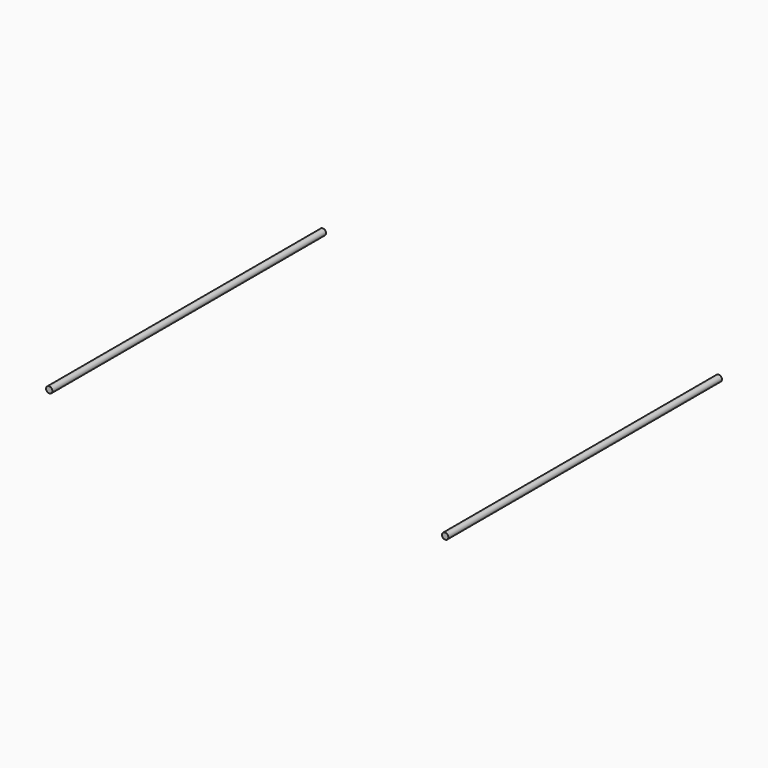
from build123d import *

# Parameters (mm, degrees)
CYLINDER011_R          = 5
CYLINDER011_DEPTH      = 540
CYLINDER011_ROLL_ANGLE = 90
CYLINDER012_R          = 5
CYLINDER012_DEPTH      = 540
CYLINDER012_ROLL_ANGLE = 90


with BuildPart() as cilindro:
    # Cylinder011 → Cylinder011 (new body)
    with BuildSketch(Plane.XY):
        Circle(CYLINDER011_R)
    extrude(amount=CYLINDER011_DEPTH)


with BuildPart() as cilindro_1:
    # Cylinder011 roll: moved
    add(cilindro.part.rotate(Axis((0, 0, 0), (1, 0, 0)), CYLINDER011_ROLL_ANGLE))


with BuildPart() as cilindro_2:
    # Cylinder011 placement: moved
    add(cilindro_1.part.moved(Location((42, 570, 625))))


with BuildPart() as fusion047:
    # Cylinder012 → Cylinder012 (new body)
    with BuildSketch(Plane.XY):
        Circle(CYLINDER012_R)
    extrude(amount=CYLINDER012_DEPTH)


with BuildPart() as fusion047_1:
    # Cylinder012 roll: moved
    add(fusion047.part.rotate(Axis((0, 0, 0), (1, 0, 0)), CYLINDER012_ROLL_ANGLE))


with BuildPart() as fusion047_2:
    # Cylinder012 placement: moved
    add(fusion047_1.part.moved(Location((667, 570, 625))))

    # Fusion047: union Cilindro
    add(cilindro_2.part)


solid = fusion047_2.part
